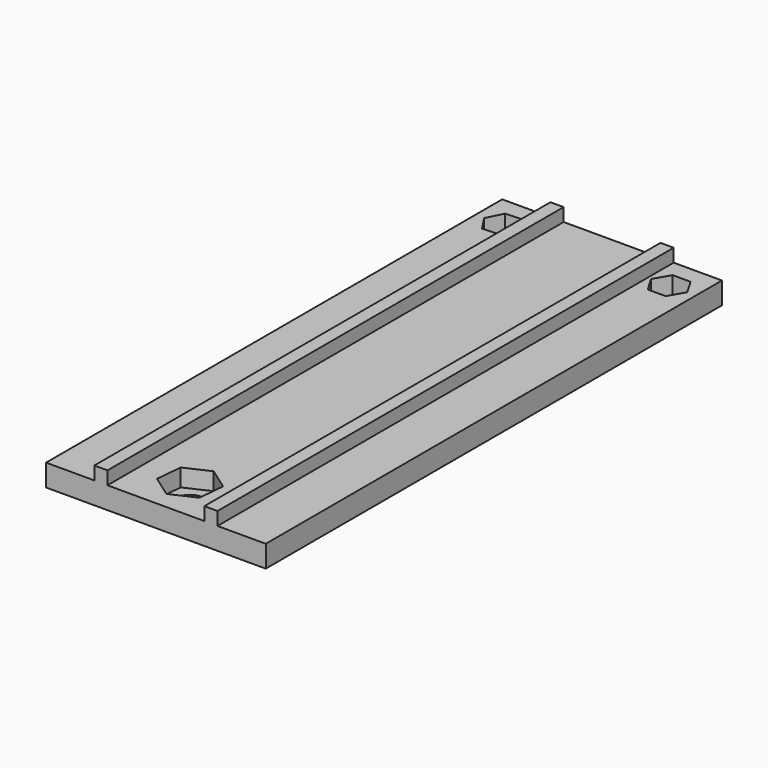
from build123d import *

# Parameters (mm, degrees)
F0_W     = 50.08647
F0_H     = 130
F1_DEPTH = 5
F2_R     = 3
F2_R_2   = 2.25
F3_DEPTH = 25
F4_DEPTH = 4
F5_W     = 3
F5_H     = 130
F6_DEPTH = 3


with BuildPart() as f1:
    # F0 (on Top) → F1 (new body)
    with BuildSketch(Plane.XY):
        with Locations((-10.767537, -34.325769)):
            Rectangle(F0_W, F0_H)
    extrude(amount=F1_DEPTH)

    # F2 (on face) → F3 (cut)
    with BuildSketch(Plane.XY.offset(5)):
        with Locations((-10.980115, -89.325769)):
            Circle(F2_R)
        with Locations((8.176511, 23.25341)):
            Circle(F2_R_2)
        with Locations((-29.718949, 23.25341)):
            Circle(F2_R_2)
    extrude(amount=-F3_DEPTH, mode=Mode.SUBTRACT)

    # F2 (on face) → F4 (cut)
    with BuildSketch(Plane.XY.offset(5)):
        Polygon((10.226105, 26.80341), (6.126918, 26.80341), (4.077324, 23.25341), (6.126918, 19.70341), (10.226105, 19.70341), (12.275698, 23.25341), align=None)
        with Locations((8.176511, 23.25341)):
            Circle(F2_R_2, mode=Mode.SUBTRACT)
        Polygon((-31.977558, 26.674231), (-33.810772, 23.007808), (-31.552163, 19.586987), (-27.46034, 19.832589), (-25.627126, 23.499012), (-27.885736, 26.919834), align=None)
        with Locations((-29.718949, 23.25341)):
            Circle(F2_R_2, mode=Mode.SUBTRACT)
        Polygon((-10.428065, -83.288779), (-15.932276, -85.829184), (-16.484327, -91.866174), (-11.532166, -95.362758), (-6.027954, -92.822353), (-5.475904, -86.785364), align=None)
        with Locations((-10.980115, -89.325769)):
            Circle(F2_R, mode=Mode.SUBTRACT)
    extrude(amount=-F4_DEPTH, mode=Mode.SUBTRACT)

    # F5 (on face) → F6 (join)
    with BuildSketch(Plane.XY.offset(5)):
        with Locations((1.775698, -34.325769)):
            Rectangle(F5_W, F5_H)
        with Locations((-23.310772, -34.325769)):
            Rectangle(F5_W, F5_H)
    extrude(amount=F6_DEPTH)


solid = f1.part
